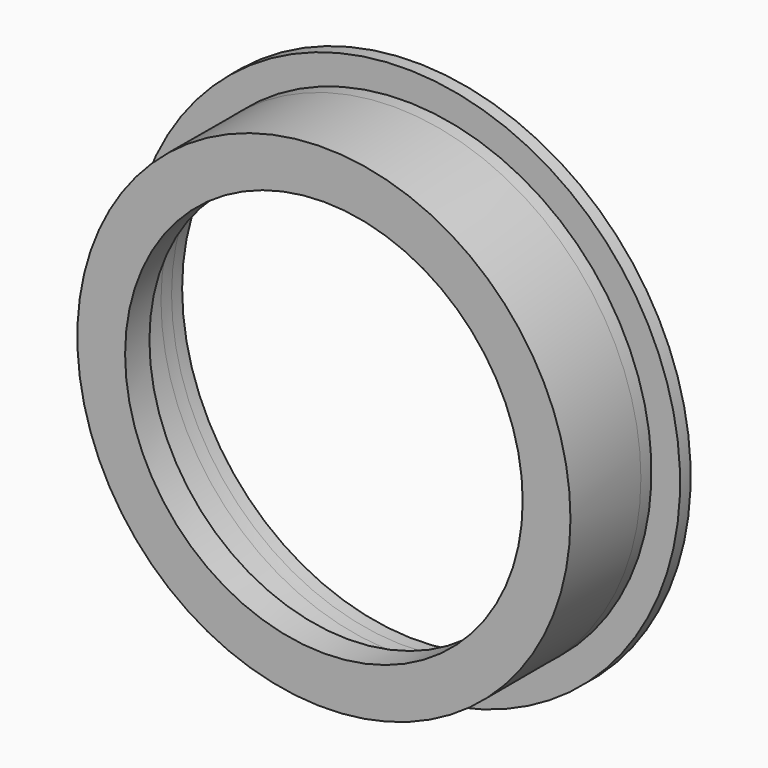
from build123d import *

# Parameters (mm, degrees)
F0_R     = 56
F0_R_2   = 53
F1_DEPTH = 20
F2_R     = 56
F2_R_2   = 45.15
F3_DEPTH = 6.9
F4_R     = 56
F4_R_2   = 53
F5_DEPTH = 3
F6_R     = 62.5
F6_R_2   = 53
F7_DEPTH = 3


with BuildPart() as f1:
    # F0 (on Front) → F1 (new body)
    with BuildSketch(Plane.XZ):
        Circle(F0_R)
        Circle(F0_R_2, mode=Mode.SUBTRACT)
    extrude(amount=F1_DEPTH)

    # F2 (on face) → F3 (join)
    with BuildSketch(Plane.XZ.offset(20)):
        Circle(F2_R)
        Circle(F2_R_2, mode=Mode.SUBTRACT)
    extrude(amount=-F3_DEPTH)

    # F4 (on face) → F5 (join)
    with BuildSketch(Plane(origin=(0, 0, 0), x_dir=(-1, 0, 0), z_dir=(0, 1, 0))):
        Circle(F4_R)
        Circle(F4_R_2, mode=Mode.SUBTRACT)
    extrude(amount=F5_DEPTH)

    # F6 (on face) → F7 (join)
    with BuildSketch(Plane(origin=(0, 3, 0), x_dir=(-1, 0, 0), z_dir=(0, 1, 0))):
        Circle(F6_R)
        Circle(F6_R_2, mode=Mode.SUBTRACT)
    extrude(amount=F7_DEPTH)


solid = f1.part
